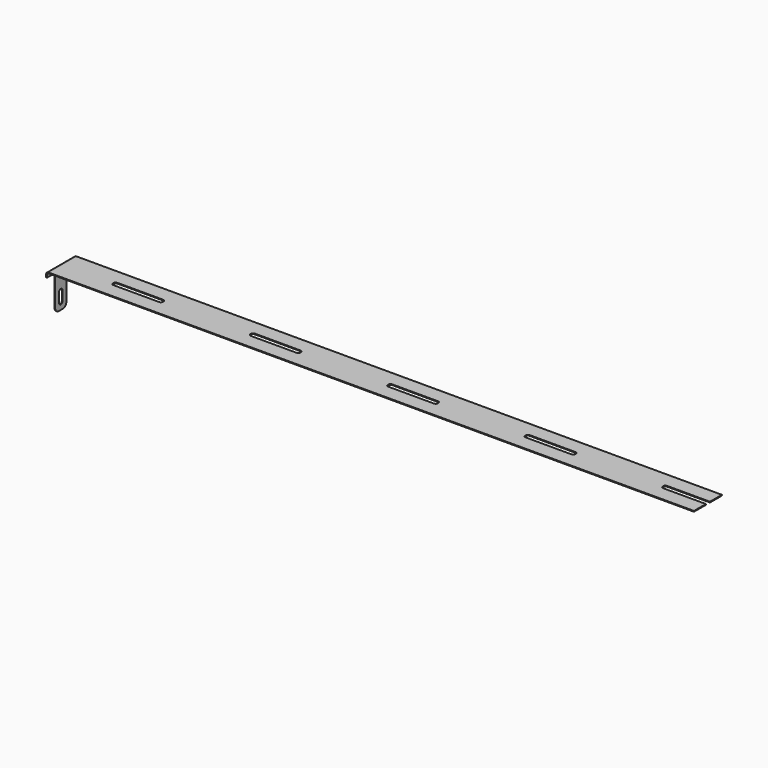
from build123d import *

# Parameters (mm, degrees)
F0_W     = 4
F0_H     = 3
F1_DEPTH = 0.15
F2_DEPTH = 1.9
F3_W     = 0.15
F3_H     = 7
F4_DEPTH = 8
F6_DEPTH = 25
F7_R     = 0.5


with BuildPart() as f1:
    # F0 (on Top) → F1 (new body)
    with BuildSketch(Plane.XY):
        with BuildLine():
            Line((96.425, -0.5), (96.425, -3.5))
            Line((96.425, -3.5), (100.425, -3.5))
            Line((100.425, -3.5), (110.2, -3.5))
            Line((110.2, -3.5), (123.975, -3.5))
            Line((123.975, -3.5), (123.975, -0.5))
            Line((123.975, -0.5), (119.375, -0.5))
            ThreePointArc((119.375, -0.5), (119.0921572875, -0.3828427125), (118.975, -0.1))
            Line((118.975, -0.1), (118.975, 0.1))
            ThreePointArc((118.975, 0.1), (119.0921572875, 0.3828427125), (119.375, 0.5))
            Line((119.375, 0.5), (123.975, 0.5))
            Line((123.975, 0.5), (123.975, 3.5))
            Line((123.975, 3.5), (110.2, 3.5))
            Line((110.2, 3.5), (100.425, 3.5))
            Line((100.425, 3.5), (96.425, 3.5))
            Line((96.425, 3.5), (96.425, 0.5))
            Line((96.425, 0.5), (101.025, 0.5))
            ThreePointArc((101.025, 0.5), (101.3078427125, 0.3828427125), (101.425, 0.1))
            Line((101.425, 0.1), (101.425, -0.1))
            ThreePointArc((101.425, -0.1), (101.3078427125, -0.3828427125), (101.025, -0.5))
            Line((101.025, -0.5), (96.425, -0.5))
        make_face()
        with BuildLine():
            Line((13.775, -0.5), (13.775, -3.5))
            Line((13.775, -3.5), (27.55, -3.5))
            Line((27.55, -3.5), (41.325, -3.5))
            Line((41.325, -3.5), (41.325, -0.5))
            Line((41.325, -0.5), (36.725, -0.5))
            ThreePointArc((36.725, -0.5), (36.4421572875, -0.3828427125), (36.325, -0.1))
            Line((36.325, -0.1), (36.325, 0.1))
            ThreePointArc((36.325, 0.1), (36.4421572875, 0.3828427125), (36.725, 0.5))
            Line((36.725, 0.5), (41.325, 0.5))
            Line((41.325, 0.5), (41.325, 3.5))
            Line((41.325, 3.5), (27.55, 3.5))
            Line((27.55, 3.5), (13.775, 3.5))
            Line((13.775, 3.5), (13.775, 0.5))
            Line((13.775, 0.5), (18.375, 0.5))
            ThreePointArc((18.375, 0.5), (18.6578427125, 0.3828427125), (18.775, 0.1))
            Line((18.775, 0.1), (18.775, -0.1))
            ThreePointArc((18.775, -0.1), (18.6578427125, -0.3828427125), (18.375, -0.5))
            Line((18.375, -0.5), (13.775, -0.5))
        make_face()
        with BuildLine():
            Line((41.325, -0.5), (41.325, -3.5))
            Line((41.325, -3.5), (55.1, -3.5))
            Line((55.1, -3.5), (68.875, -3.5))
            Line((68.875, -3.5), (68.875, -0.5))
            Line((68.875, -0.5), (64.275, -0.5))
            ThreePointArc((64.275, -0.5), (63.9921572875, -0.3828427125), (63.875, -0.1))
            Line((63.875, -0.1), (63.875, 0.1))
            ThreePointArc((63.875, 0.1), (63.9921572875, 0.3828427125), (64.275, 0.5))
            Line((64.275, 0.5), (68.875, 0.5))
            Line((68.875, 0.5), (68.875, 3.5))
            Line((68.875, 3.5), (55.1, 3.5))
            Line((55.1, 3.5), (41.325, 3.5))
            Line((41.325, 3.5), (41.325, 0.5))
            Line((41.325, 0.5), (45.925, 0.5))
            ThreePointArc((45.925, 0.5), (46.2078427125, 0.3828427125), (46.325, 0.1))
            Line((46.325, 0.1), (46.325, -0.1))
            ThreePointArc((46.325, -0.1), (46.2078427125, -0.3828427125), (45.925, -0.5))
            Line((45.925, -0.5), (41.325, -0.5))
        make_face()
        with BuildLine():
            Line((68.875, -0.5), (68.875, -3.5))
            Line((68.875, -3.5), (82.65, -3.5))
            Line((82.65, -3.5), (96.425, -3.5))
            Line((96.425, -3.5), (96.425, -0.5))
            Line((96.425, -0.5), (91.825, -0.5))
            ThreePointArc((91.825, -0.5), (91.5421572875, -0.3828427125), (91.425, -0.1))
            Line((91.425, -0.1), (91.425, 0.1))
            ThreePointArc((91.425, 0.1), (91.5421572875, 0.3828427125), (91.825, 0.5))
            Line((91.825, 0.5), (96.425, 0.5))
            Line((96.425, 0.5), (96.425, 3.5))
            Line((96.425, 3.5), (82.65, 3.5))
            Line((82.65, 3.5), (68.875, 3.5))
            Line((68.875, 3.5), (68.875, 0.5))
            Line((68.875, 0.5), (73.475, 0.5))
            ThreePointArc((73.475, 0.5), (73.7578427125, 0.3828427125), (73.875, 0.1))
            Line((73.875, 0.1), (73.875, -0.1))
            ThreePointArc((73.875, -0.1), (73.7578427125, -0.3828427125), (73.475, -0.5))
            Line((73.475, -0.5), (68.875, -0.5))
        make_face()
        with BuildLine():
            Line((0, 3.5), (0, -3.5))
            Line((0, -3.5), (13.775, -3.5))
            Line((13.775, -3.5), (13.775, -0.5))
            Line((13.775, -0.5), (9.175, -0.5))
            ThreePointArc((9.175, -0.5), (8.8921572875, -0.3828427125), (8.775, -0.1))
            Line((8.775, -0.1), (8.775, 0.1))
            ThreePointArc((8.775, 0.1), (8.8921572875, 0.3828427125), (9.175, 0.5))
            Line((9.175, 0.5), (13.775, 0.5))
            Line((13.775, 0.5), (13.775, 3.5))
            Line((13.775, 3.5), (0, 3.5))
        make_face()
        with BuildLine():
            Line((96.425, -0.5), (96.425, -3.5))
            Line((96.425, -3.5), (100.425, -3.5))
            Line((100.425, -3.5), (110.2, -3.5))
            Line((110.2, -3.5), (123.975, -3.5))
            Line((123.975, -3.5), (123.975, -0.5))
            Line((123.975, -0.5), (119.375, -0.5))
            ThreePointArc((119.375, -0.5), (119.0921572875, -0.3828427125), (118.975, -0.1))
            Line((118.975, -0.1), (118.975, 0.1))
            ThreePointArc((118.975, 0.1), (119.0921572875, 0.3828427125), (119.375, 0.5))
            Line((119.375, 0.5), (123.975, 0.5))
            Line((123.975, 0.5), (123.975, 3.5))
            Line((123.975, 3.5), (110.2, 3.5))
            Line((110.2, 3.5), (100.425, 3.5))
            Line((100.425, 3.5), (96.425, 3.5))
            Line((96.425, 3.5), (96.425, 0.5))
            Line((96.425, 0.5), (101.025, 0.5))
            ThreePointArc((101.025, 0.5), (101.3078427125, 0.3828427125), (101.425, 0.1))
            Line((101.425, 0.1), (101.425, -0.1))
            ThreePointArc((101.425, -0.1), (101.3078427125, -0.3828427125), (101.025, -0.5))
            Line((101.025, -0.5), (96.425, -0.5))
        make_face()
        with BuildLine():
            Line((96.425, -0.5), (96.425, -3.5))
            Line((96.425, -3.5), (100.425, -3.5))
            Line((100.425, -3.5), (110.2, -3.5))
            Line((110.2, -3.5), (123.975, -3.5))
            Line((123.975, -3.5), (123.975, -0.5))
            Line((123.975, -0.5), (119.375, -0.5))
            ThreePointArc((119.375, -0.5), (119.0921572875, -0.3828427125), (118.975, -0.1))
            Line((118.975, -0.1), (118.975, 0.1))
            ThreePointArc((118.975, 0.1), (119.0921572875, 0.3828427125), (119.375, 0.5))
            Line((119.375, 0.5), (123.975, 0.5))
            Line((123.975, 0.5), (123.975, 3.5))
            Line((123.975, 3.5), (110.2, 3.5))
            Line((110.2, 3.5), (100.425, 3.5))
            Line((100.425, 3.5), (96.425, 3.5))
            Line((96.425, 3.5), (96.425, 0.5))
            Line((96.425, 0.5), (101.025, 0.5))
            ThreePointArc((101.025, 0.5), (101.3078427125, 0.3828427125), (101.425, 0.1))
            Line((101.425, 0.1), (101.425, -0.1))
            ThreePointArc((101.425, -0.1), (101.3078427125, -0.3828427125), (101.025, -0.5))
            Line((101.025, -0.5), (96.425, -0.5))
        make_face()
        with BuildLine():
            Line((96.425, -0.5), (96.425, -3.5))
            Line((96.425, -3.5), (100.425, -3.5))
            Line((100.425, -3.5), (110.2, -3.5))
            Line((110.2, -3.5), (123.975, -3.5))
            Line((123.975, -3.5), (123.975, -0.5))
            Line((123.975, -0.5), (119.375, -0.5))
            ThreePointArc((119.375, -0.5), (119.0921572875, -0.3828427125), (118.975, -0.1))
            Line((118.975, -0.1), (118.975, 0.1))
            ThreePointArc((118.975, 0.1), (119.0921572875, 0.3828427125), (119.375, 0.5))
            Line((119.375, 0.5), (123.975, 0.5))
            Line((123.975, 0.5), (123.975, 3.5))
            Line((123.975, 3.5), (110.2, 3.5))
            Line((110.2, 3.5), (100.425, 3.5))
            Line((100.425, 3.5), (96.425, 3.5))
            Line((96.425, 3.5), (96.425, 0.5))
            Line((96.425, 0.5), (101.025, 0.5))
            ThreePointArc((101.025, 0.5), (101.3078427125, 0.3828427125), (101.425, 0.1))
            Line((101.425, 0.1), (101.425, -0.1))
            ThreePointArc((101.425, -0.1), (101.3078427125, -0.3828427125), (101.025, -0.5))
            Line((101.025, -0.5), (96.425, -0.5))
        make_face()
        with Locations((125.975, -2)):
            Rectangle(F0_W, F0_H)
        with Locations((125.975, 2)):
            Rectangle(F0_W, F0_H)
    extrude(amount=F1_DEPTH)

    # F2 (add): a face of the model
    f2_faces = [f1.faces().sort_by_distance(p)[0] for p in [
        (0, 0, 0.075),
    ]]
    extrude(f2_faces, amount=F2_DEPTH)

    # F3 (on face) → F4 (join)
    with BuildSketch(Plane(origin=(0, 0, 0), x_dir=(1, 0, 0), z_dir=(0, 0, -1))):
        with Locations((-1.825, 0)):
            Rectangle(F3_W, F3_H)
    extrude(amount=F4_DEPTH)

    # F5 (on face) → F6 (cut)
    with BuildSketch(Plane(origin=(-1.9, 0, 0), x_dir=(0, -1, 0), z_dir=(-1, 0, 0))):
        with BuildLine():
            ThreePointArc((1.4, -7.1), (1.1363961031, -7.7363961031), (0.5, -8))
            Line((0.5, -8), (3.5, -8))
            Line((3.5, -8), (3.5, -0.8))
            ThreePointArc((3.5, -0.8), (3.4707106781, -0.8707106781), (3.4, -0.9))
            Line((3.4, -0.9), (2.3, -0.9))
            ThreePointArc((2.3, -0.9), (1.6636038969, -1.1636038969), (1.4, -1.8))
            Line((1.4, -1.8), (1.4, -7.1))
        make_face()
        with BuildLine():
            Line((-3.5, -8), (-0.5, -8))
            ThreePointArc((-0.5, -8), (-1.1363961031, -7.7363961031), (-1.4, -7.1))
            Line((-1.4, -7.1), (-1.4, -1.8))
            ThreePointArc((-1.4, -1.8), (-1.6636038969, -1.1636038969), (-2.3, -0.9))
            Line((-2.3, -0.9), (-3.4, -0.9))
            ThreePointArc((-3.4, -0.9), (-3.4707106781, -0.8707106781), (-3.5, -0.8))
            Line((-3.5, -0.8), (-3.5, -8))
        make_face()
        with BuildLine():
            ThreePointArc((-0.45, -4.7), (0, -5.15), (0.45, -4.7))
            ThreePointArc((0.45, -4.7), (0, -4.25), (-0.45, -4.7))
        make_face()
        with BuildLine():
            ThreePointArc((-0.45, -6.6), (0, -6.15), (0.45, -6.6))
            Line((0.45, -6.6), (0.45, -4.7))
            ThreePointArc((0.45, -4.7), (0, -5.15), (-0.45, -4.7))
            Line((-0.45, -4.7), (-0.45, -6.6))
        make_face()
        with BuildLine():
            ThreePointArc((-0.45, -6.6), (0, -7.05), (0.45, -6.6))
            ThreePointArc((0.45, -6.6), (0, -6.15), (-0.45, -6.6))
        make_face()
    extrude(amount=-F6_DEPTH, mode=Mode.SUBTRACT)

    # F7
    f7_edges = [f1.edges().sort_by_distance(p)[0] for p in [
        (-1.9, 0, 0.15),
        (-1.75, 0, 0),
    ]]
    fillet(f7_edges, radius=F7_R)


solid = f1.part
